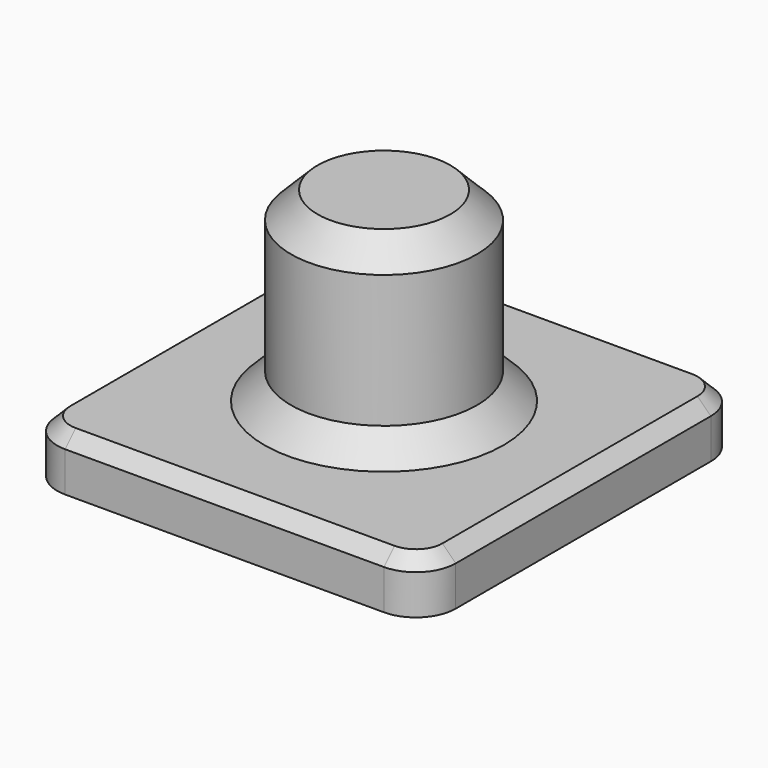
from build123d import *

# Parameters (mm, degrees)
F0_W     = 30
F0_H     = 30
F1_DEPTH = 4
F2_R     = 3
F3_R     = 7
F4_DEPTH = 14
F5_SIZE  = 2
F6_SIZE  = 1


with BuildPart() as f1:
    # F0 (on Top) → F1 (new body)
    with BuildSketch(Plane.XY):
        Rectangle(F0_W, F0_H)
    extrude(amount=F1_DEPTH)

    # F2
    f2_edges = [f1.edges().sort_by_distance(p)[0] for p in [
        (15, 15, 2),
        (-15, 15, 2),
        (-15, -15, 2),
        (15, -15, 2),
    ]]
    fillet(f2_edges, radius=F2_R)

    # F3 (on face) → F4 (join)
    with BuildSketch(Plane.XY.offset(4)):
        Circle(F3_R)
    extrude(amount=F4_DEPTH)

    # F5
    f5_edges = [f1.edges().sort_by_distance(p)[0] for p in [
        (-7, 0, 18),
        (-7, 0, 4),
    ]]
    chamfer(f5_edges, length=F5_SIZE)

    # F6
    f6_edges = [f1.edges().sort_by_distance(p)[0] for p in [
        (0, -15, 4),
    ]]
    chamfer(f6_edges, length=F6_SIZE)


solid = f1.part
